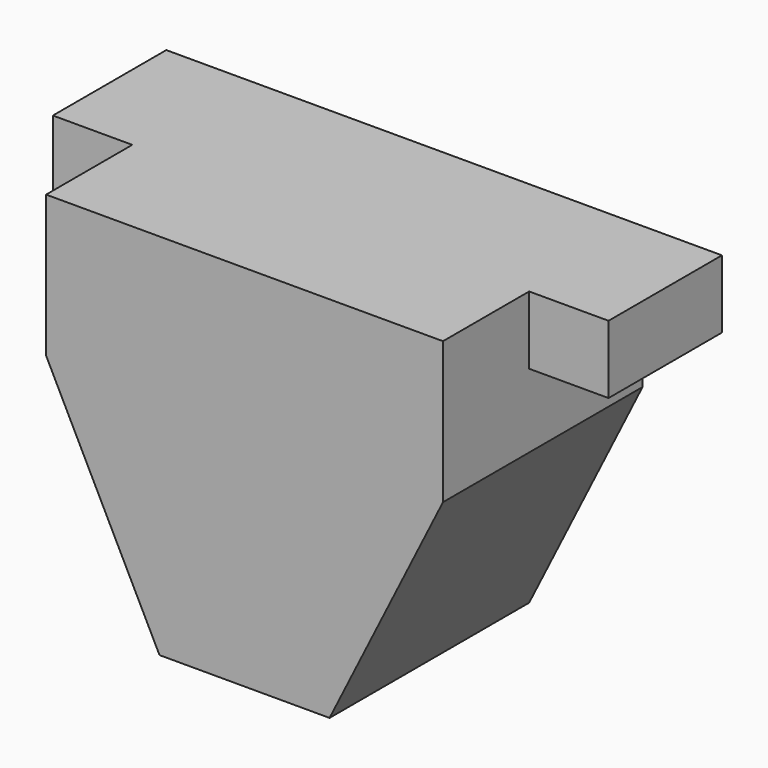
from build123d import *

# Parameters (mm, degrees)
F0_W     = 700
F0_H     = 650
F1_DEPTH = 440
F3_DEPTH = 440.001
F4_W     = 140
F4_H     = 250
F5_DEPTH = 120


with BuildPart() as f1:
    # F0 (on Front) → F1 (new body)
    with BuildSketch(Plane.XZ):
        Rectangle(F0_W, F0_H)
    extrude(amount=F1_DEPTH)

    # F2 (on face) → F3 (cut, through all)
    with BuildSketch(Plane.XZ.offset(440)):
        Polygon((-150, -325), (-350, 75), (-350, -325), align=None)
        Polygon((350, 75), (150, -325), (350, -325), align=None)
    extrude(amount=-F3_DEPTH, mode=Mode.SUBTRACT)

    # F4 (on face) → F5 (join)
    with BuildSketch(Plane.XY.offset(325)):
        with Locations((420, -125)):
            Rectangle(F4_W, F4_H)
        with Locations((-420, -125)):
            Rectangle(F4_W, F4_H)
    extrude(amount=-F5_DEPTH)


solid = f1.part
